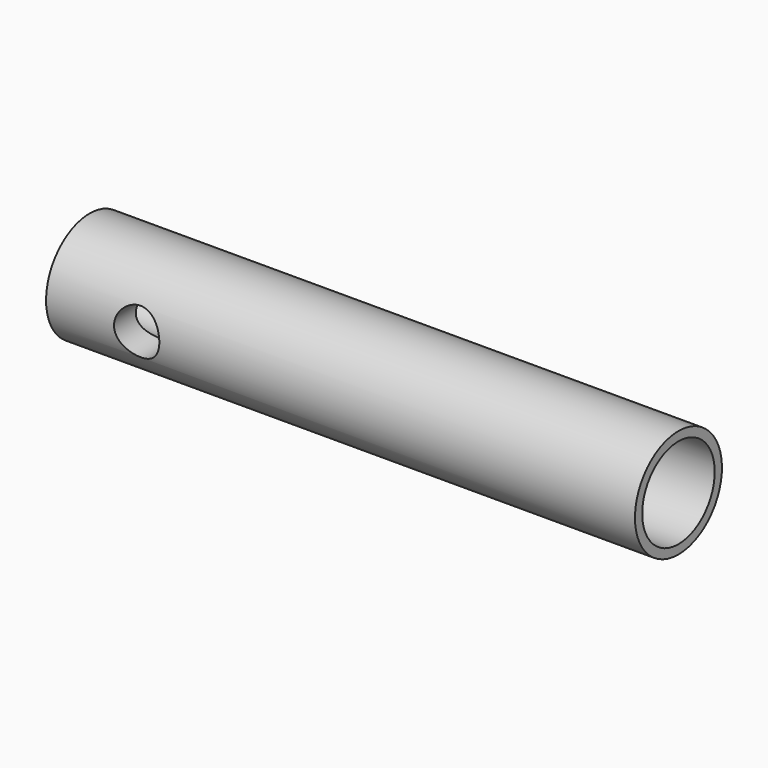
from build123d import *

# Parameters (mm, degrees)
F2_R     = 3
F3_DEPTH = 63
F4_R     = 5
F5_DEPTH = 12
F6_W     = 2.5
F6_H     = 11.932325


with BuildPart() as f1:
    # F0 (on Front) → F1 (revolve)
    with BuildSketch(Plane.XZ):
        with BuildLine():
            ThreePointArc((-37.441203, 0), (-37.136928, -3.059921), (-36.236017, -6))
            Line((-36.236017, -6), (28.763983, -6))
            Line((28.763983, -6), (28.763983, 0))
            Line((28.763983, 0), (-37.441203, 0))
        make_face()
    revolve(axis=Axis((-4.33861, 0, 0), (-1, 0, 0)))

    # F2 (on face) → F3 (cut)
    with BuildSketch(Plane.YZ.offset(28.763983)):
        Circle(F2_R)
    extrude(amount=-F3_DEPTH, mode=Mode.SUBTRACT)

    # F4 (on face) → F5 (cut)
    with BuildSketch(Plane.YZ.offset(28.763983)):
        Circle(F4_R)
    extrude(amount=-F5_DEPTH, mode=Mode.SUBTRACT)

    # F6 (on Top) → F7 (revolve, cut)
    with BuildSketch(Plane.XY):
        with Locations((-24.986017, -5.966162)):
            Rectangle(F6_W, F6_H)
    revolve(axis=Axis((-26.236017, -5.966163, 0), (0, -1, 0)), mode=Mode.SUBTRACT)


solid = f1.part
